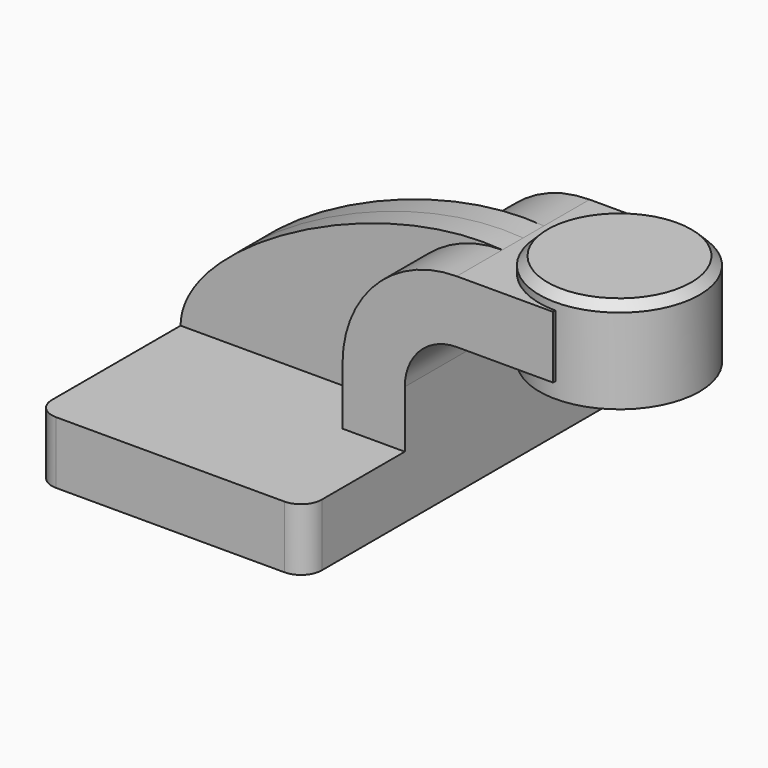
from build123d import *

# Parameters (mm, degrees)
F1_DEPTH = 63.5
F2_DEPTH = 25.4
F3_DEPTH = 7.9375
F5_R     = 6.35
F6_SIZE  = 2.54


with BuildPart() as f1:
    # F0 (on Front) → F1 (new body, symmetric)
    with BuildSketch(Plane.XZ):
        Polygon((22.225, 9.525), (-41.275, 9.525), (-41.275, -9.525), (41.275, -9.525), (41.275, 9.525), align=None)
    extrude(amount=F1_DEPTH, both=True)

    # F0 (on Front) → F2 (join, symmetric)
    with BuildSketch(Plane.XZ):
        with BuildLine():
            Line((22.225, 27.0002), (22.225, 9.525))
            Line((22.225, 9.525), (41.275, 9.525))
            Line((41.275, 9.525), (41.275, 27.0002))
            ThreePointArc((41.275, 27.0002), (45.9246798487, 38.2255201513), (57.15, 42.8752))
            Line((57.15, 42.8752), (60.325, 42.8752))
            Line((60.325, 42.8752), (60.325, 61.9252))
            Line((60.325, 61.9252), (57.15, 61.9252))
            ThreePointArc((57.15, 61.9252), (32.4542956671, 51.6959043329), (22.225, 27.0002))
        make_face()
        Polygon((86.6135649812, 61.9252), (60.325, 61.9252), (60.325, 42.8752), (76.2353741971, 42.8752), (86.6135649812, 42.8752), align=None)
    extrude(amount=F2_DEPTH, both=True)

    # F0 (on Front) → F3 (join, symmetric)
    with BuildSketch(Plane.XZ):
        with BuildLine():
            add(Edge.make_bspline(
                [(-41.275, 9.525), (-41.1990918219, 33.1209041178), (17.5218340009, 65.2216747403), (57.15, 61.9252)],
                knots=[0, 0, 0, 0, 111.5045361635, 111.5045361635, 111.5045361635, 111.5045361635], degree=3))
            Line((-41.275, 9.525), (22.225, 9.525))
            Line((22.225, 9.525), (22.225, 27.0002))
            ThreePointArc((22.225, 27.0002), (32.4542956671, 51.6959043329), (57.15, 61.9252))
        make_face()
    extrude(amount=F3_DEPTH, both=True)

    # F0 (on Front) → F4 (revolve)
    with BuildSketch(Plane.XZ):
        Polygon((86.6135649812, 66.675), (86.6135649812, 61.9252), (86.6135649812, 42.8752), (86.6135649812, 38.1), (111.125, 38.1), (111.125, 66.675), align=None)
    revolve(axis=Axis((86.6135649812, 0, 52.3875), (0, 0, -1)))

    # F5
    f5_edges = [f1.edges().sort_by_distance(p)[0] for p in [
        (-41.275, -63.5, 0),
        (41.275, -63.5, 0),
        (41.275, 63.5, 0),
        (-41.275, 63.5, 0),
    ]]
    fillet(f5_edges, radius=F5_R)

    # F6
    f6_edges = [f1.edges().sort_by_distance(p)[0] for p in [
        (62.10213, 0, 66.675),
    ]]
    chamfer(f6_edges, length=F6_SIZE)


solid = f1.part
